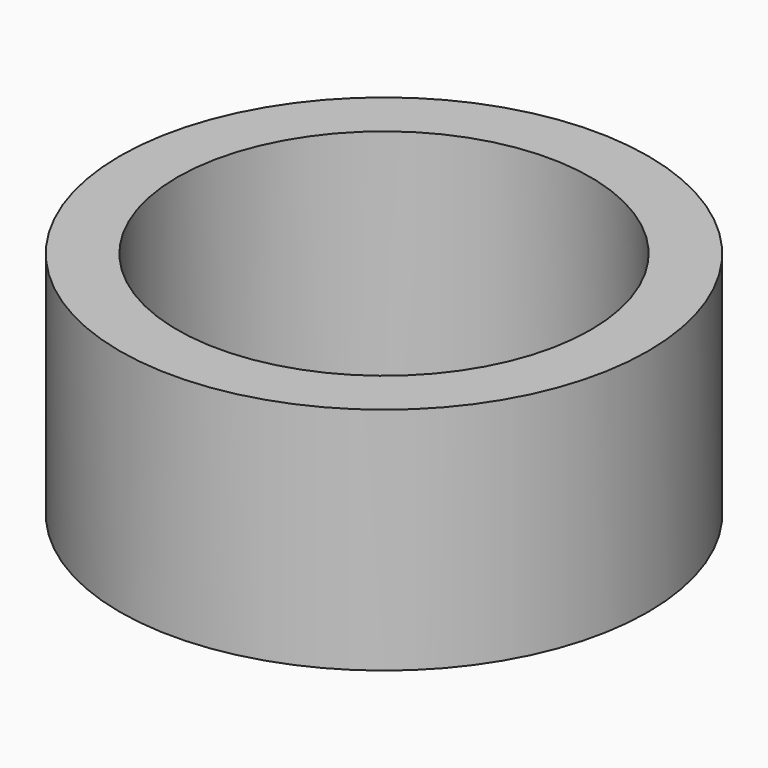
from build123d import *

# Parameters (mm, degrees)
CYLINDER012_R     = 1.8
CYLINDER012_DEPTH = 7
CYLINDER013_R     = 2.3
CYLINDER013_DEPTH = 2


with BuildPart() as cylinder:
    # Cylinder012 → Cylinder012 (new body)
    with BuildSketch(Plane.XY):
        Circle(CYLINDER012_R)
    extrude(amount=CYLINDER012_DEPTH)


with BuildPart() as m2_stand_cut:
    # Cylinder013 → Cylinder013 (new body)
    with BuildSketch(Plane.XY):
        Circle(CYLINDER013_R)
    extrude(amount=CYLINDER013_DEPTH)

    # Cut009: cut Cylinder
    add(cylinder.part, mode=Mode.SUBTRACT)


solid = m2_stand_cut.part
